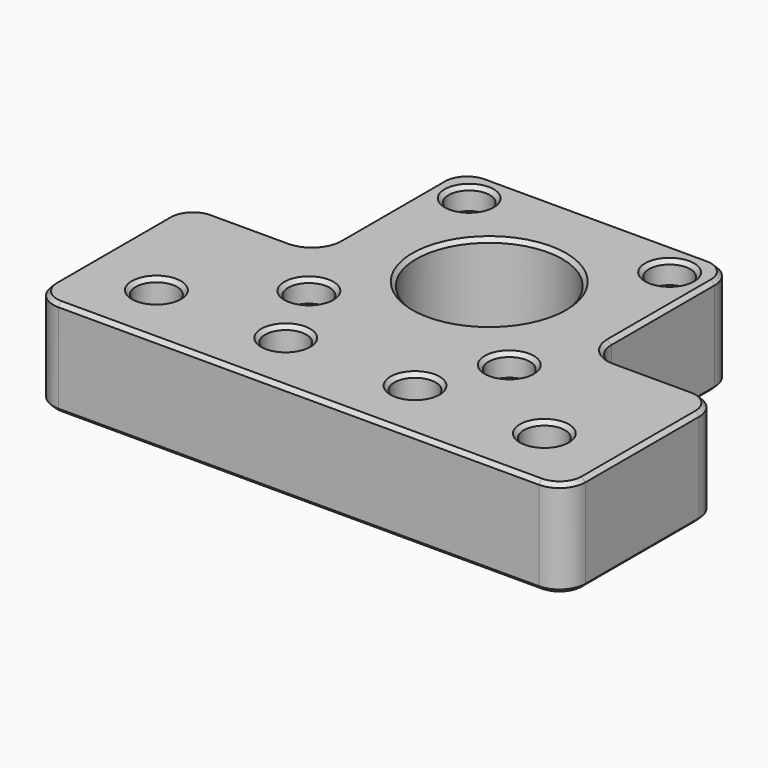
from build123d import *

# Parameters (mm, degrees)
SKETCH_R        = 11.3
SKETCH_R_2      = 1.6
SKETCH_R_3      = 3.2
PAD_DEPTH       = 15
SKETCH001_R     = 3.2
POCKET_DEPTH    = 3.4
SKETCH002_R     = 6.1
POCKET001_DEPTH = 4
FILLET_R        = 4
FILLET001_R     = 4
CHAMFER_SIZE    = 0.6
CHAMFER001_SIZE = 0.6
CHAMFER002_SIZE = 0.6


with BuildPart() as part:
    # Sketch → Pad (new body)
    with BuildSketch(Plane.XY):
        Polygon((20, 30), (20, 58), (62.3, 58), (62.3, 30), (82.3, 30), (82.3, 0), (0, 0), (0, 30), align=None)
        with Locations((41.15, 36.85)):
            Circle(SKETCH_R, mode=Mode.SUBTRACT)
        with Locations((25.65, 52.35)):
            Circle(SKETCH_R_2, mode=Mode.SUBTRACT)
        with Locations((25.65, 21.35)):
            Circle(SKETCH_R_2, mode=Mode.SUBTRACT)
        with Locations((56.65, 52.35)):
            Circle(SKETCH_R_2, mode=Mode.SUBTRACT)
        with Locations((56.65, 21.35)):
            Circle(SKETCH_R_2, mode=Mode.SUBTRACT)
        with Locations((11.15, 10)):
            Circle(SKETCH_R_3, mode=Mode.SUBTRACT)
        with Locations((31.15, 10)):
            Circle(SKETCH_R_3, mode=Mode.SUBTRACT)
        with Locations((51.15, 10)):
            Circle(SKETCH_R_3, mode=Mode.SUBTRACT)
        with Locations((71.15, 10)):
            Circle(SKETCH_R_3, mode=Mode.SUBTRACT)
    extrude(amount=PAD_DEPTH)

    # Sketch001 (on Face19 of Pad) → Pocket (cut)
    with BuildSketch(Plane.XY.offset(15)):
        with Locations((25.65, 52.35)):
            Circle(SKETCH001_R)
        with Locations((56.65, 52.35)):
            Circle(SKETCH001_R)
        with Locations((56.65, 21.35)):
            Circle(SKETCH001_R)
        with Locations((25.65, 21.35)):
            Circle(SKETCH001_R)
    extrude(amount=-POCKET_DEPTH, mode=Mode.SUBTRACT)

    # Sketch002 (on Face4 of Pocket) → Pocket001 (cut)
    with BuildSketch(Plane(origin=(0, 0, 0), x_dir=(1, 0, 0), z_dir=(0, 0, -1))):
        with Locations((11.15, -10)):
            Circle(SKETCH002_R)
        with Locations((31.15, -10)):
            Circle(SKETCH002_R)
        with Locations((51.15, -10)):
            Circle(SKETCH002_R)
        with Locations((71.15, -10)):
            Circle(SKETCH002_R)
    extrude(amount=-POCKET001_DEPTH, mode=Mode.SUBTRACT)

    # Fillet
    fillet_edges = [part.edges().sort_by_distance(p)[0] for p in [
        (0, 30, 7.5),
        (20, 58, 7.5),
        (62.3, 58, 7.5),
        (82.3, 30, 7.5),
        (0, 0, 7.5),
        (82.3, 0, 7.5),
    ]]
    fillet(fillet_edges, radius=FILLET_R)

    # Fillet001
    fillet001_edges = [part.edges().sort_by_distance(p)[0] for p in [
        (20, 30, 7.5),
        (62.3, 30, 7.5),
    ]]
    fillet(fillet001_edges, radius=FILLET001_R)

    # Chamfer
    chamfer_edges = [part.edges().sort_by_distance(p)[0] for p in [
        (20, 44, 0),
        (18.828427, 31.171573, 0),
        (21.171573, 56.828427, 0),
        (10, 30, 0),
        (41.15, 58, 0),
        (1.171573, 28.828427, 0),
        (61.128427, 56.828427, 0),
        (0, 15, 0),
        (62.3, 44, 0),
        (1.171573, 1.171573, 0),
        (63.471573, 31.171573, 0),
        (41.15, 0, 0),
        (72.3, 30, 0),
        (81.128427, 1.171573, 0),
        (81.128427, 28.828427, 0),
        (82.3, 15, 0),
        (29.85, 36.85, 0),
        (55.05, 52.35, 0),
        (24.05, 52.35, 0),
        (25.05, 10, 0),
        (24.05, 21.35, 0),
        (55.05, 21.35, 0),
        (45.05, 10, 0),
        (65.05, 10, 0),
        (5.05, 10, 0),
    ]]
    chamfer(chamfer_edges, length=CHAMFER_SIZE)

    # Chamfer001
    chamfer001_edges = [part.edges().sort_by_distance(p)[0] for p in [
        (20, 44, 15),
        (18.828427, 31.171573, 15),
        (21.171573, 56.828427, 15),
        (10, 30, 15),
        (41.15, 58, 15),
        (1.171573, 28.828427, 15),
        (61.128427, 56.828427, 15),
        (0, 15, 15),
        (62.3, 44, 15),
        (1.171573, 1.171573, 15),
        (63.471573, 31.171573, 15),
        (41.15, 0, 15),
        (72.3, 30, 15),
        (81.128427, 1.171573, 15),
        (81.128427, 28.828427, 15),
        (82.3, 15, 15),
        (29.85, 36.85, 15),
        (53.45, 52.35, 15),
        (53.45, 21.35, 15),
        (67.95, 10, 15),
        (47.95, 10, 15),
        (27.95, 10, 15),
        (22.45, 21.35, 15),
        (22.45, 52.35, 15),
        (7.95, 10, 15),
    ]]
    chamfer(chamfer001_edges, length=CHAMFER001_SIZE)

    # Chamfer002
    chamfer002_edges = [part.edges().sort_by_distance(p)[0] for p in [
        (67.95, 10, 4),
        (47.95, 10, 4),
        (27.95, 10, 4),
        (7.95, 10, 4),
    ]]
    chamfer(chamfer002_edges, length=CHAMFER002_SIZE)


solid = part.part
